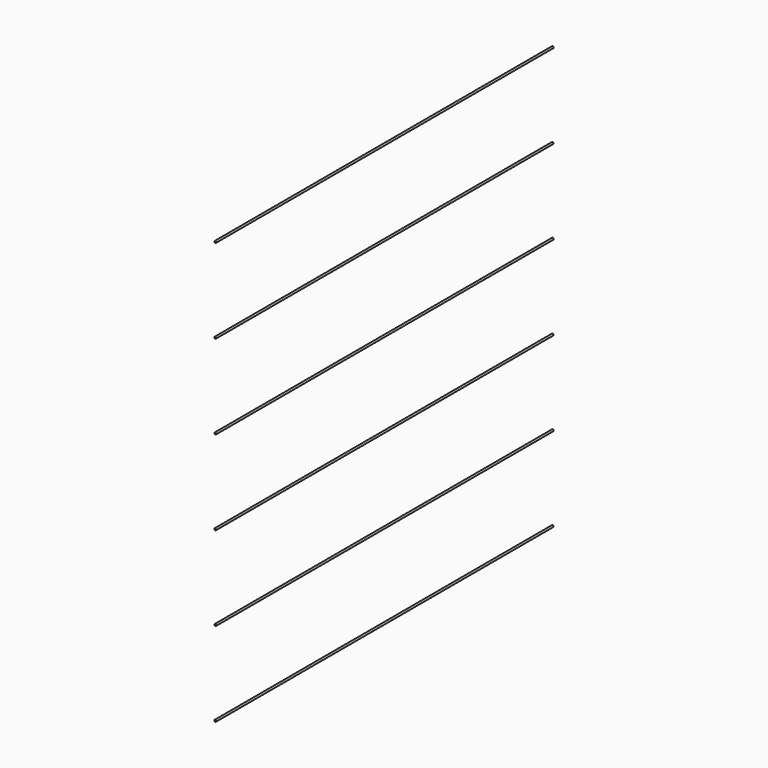
from build123d import *

# Parameters (mm, degrees)
F2_R = 1.125


with BuildPart() as f3:
    # F3: sweep along a path in F0
    with BuildLine(Plane.YZ) as f3_path:
        Line((-1030.1807813505, 76.2240788737), (-530.1807813505, 76.2240788737))
    # F2 (on plane+point) → F3 (sweep)
    with BuildSketch(Plane.XZ.offset(530.1807813505)):
        with Locations((0, 76.2240788737)):
            Circle(F2_R)
    sweep(path=f3_path.line)

    # F4: sweep along a path in F0
    with BuildLine(Plane.YZ) as f4_path:
        Line((-1030.1807813505, 276.2240788737), (-530.1807813505, 276.2240788737))
    # F2 (on plane+point) → F4 (sweep)
    with BuildSketch(Plane.XZ.offset(530.1807813505)):
        with Locations((0, 276.2240788737)):
            Circle(F2_R)
        with Locations((0, 176.2240788737)):
            Circle(F2_R)
        with Locations((0, 76.2240788737)):
            Circle(F2_R)
        with Locations((0, -23.7759211263)):
            Circle(F2_R)
        with Locations((0, -123.7759211263)):
            Circle(F2_R)
        with Locations((0, -223.7759211263)):
            Circle(F2_R)
    sweep(path=f4_path.line)


solid = f3.part
